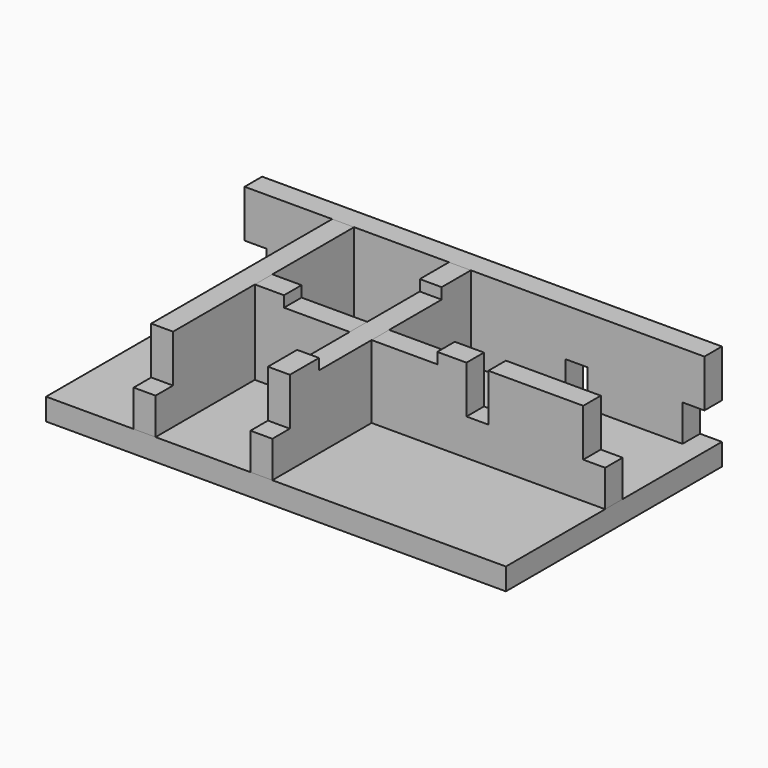
from build123d import *

# Parameters (mm, degrees)
SKETCH_W        = 126
SKETCH_H        = 74
PAD_DEPTH       = 6
SKETCH001_W     = 126
SKETCH001_H     = 23
PAD001_DEPTH    = 6
SKETCH004_W     = 6
SKETCH004_H     = 10
POCKET001_DEPTH = 6.001
SKETCH006_W     = 6
SKETCH006_H     = 10
POCKET003_DEPTH = 6.001
SKETCH002_W     = 74
SKETCH002_H     = 23
PAD002_DEPTH    = 6
SKETCH003_W     = 6
SKETCH003_H     = 13
POCKET_DEPTH    = 6.001
SKETCH005_W     = 6
SKETCH005_H     = 10
POCKET002_DEPTH = 6.001
SKETCH009_W     = 42
SKETCH009_H     = 3
POCKET005_DEPTH = 6.001
SKETCH007_W     = 102
SKETCH007_H     = 23
PAD003_DEPTH    = 6
SKETCH008_W     = 6
SKETCH008_H     = 13
POCKET004_DEPTH = 6.001


with BuildPart() as base:
    # Sketch → Pad (new body)
    with BuildSketch(Plane.XY):
        with Locations((0, 37)):
            Rectangle(SKETCH_W, SKETCH_H)
    extrude(amount=PAD_DEPTH)


with BuildPart() as side_long_clone:
    # Sketch001 → Pad001 (new body)
    with BuildSketch(Plane.XZ):
        with Locations((0, 11.5)):
            Rectangle(SKETCH001_W, SKETCH001_H)
    extrude(amount=PAD001_DEPTH)

    # Sketch004 (on Face6 of Pad001) → Pocket001 (cut, through all)
    with BuildSketch(Plane.XZ.offset(6)):
        with Locations((60, 5)):
            Rectangle(SKETCH004_W, SKETCH004_H)
        with Locations((-60, 5)):
            Rectangle(SKETCH004_W, SKETCH004_H)
    extrude(amount=-POCKET001_DEPTH, mode=Mode.SUBTRACT)

    # Sketch006 (on Face5 of Pocket001) → Pocket003 (cut, through all)
    with BuildSketch(Plane.XZ.offset(6)):
        with Locations((-36, 5)):
            Rectangle(SKETCH006_W, SKETCH006_H)
        with Locations((-4, 5)):
            Rectangle(SKETCH006_W, SKETCH006_H)
        with Locations((28, 5)):
            Rectangle(SKETCH006_W, SKETCH006_H)
    extrude(amount=-POCKET003_DEPTH, mode=Mode.SUBTRACT)


with BuildPart() as side_long_clone_1:
    # Body001 placement: moved
    add(side_long_clone.part.moved(Location((0, 6, 6))))


with BuildPart() as side_long_clone_2:
    # Body002 placement: moved
    add(side_long_clone_1.part.moved(Location((0, 68, 0))))


with BuildPart() as divider_clone_from_small_side:
    # Sketch002 → Pad002 (new body)
    with BuildSketch(Plane.YZ):
        with Locations((0, 11.5)):
            Rectangle(SKETCH002_W, SKETCH002_H)
    extrude(amount=PAD002_DEPTH)

    # Sketch003 (on Face6 of Pad002) → Pocket (cut, through all)
    with BuildSketch(Plane.YZ.offset(6)):
        with Locations((-34, 16.5)):
            Rectangle(SKETCH003_W, SKETCH003_H)
        with Locations((34, 16.5)):
            Rectangle(SKETCH003_W, SKETCH003_H)
    extrude(amount=-POCKET_DEPTH, mode=Mode.SUBTRACT)


with BuildPart() as divider_clone_from_small_side_1:
    # Body003 placement: moved
    add(divider_clone_from_small_side.part.moved(Location((-63, 37, 6))))

    # Sketch005 (on Face5 of Clone002) → Pocket002 (cut, through all)
    with BuildSketch(Plane(origin=(-57, 37, 6), x_dir=(0, 1, 0), z_dir=(1, 0, 0))):
        with Locations((0, 5)):
            Rectangle(SKETCH005_W, SKETCH005_H)
    extrude(amount=-POCKET002_DEPTH, mode=Mode.SUBTRACT)


with BuildPart() as divider_clone_from_small_side_2:
    # Body006 placement: moved
    add(divider_clone_from_small_side_1.part.moved(Location((120, 0, 0))))


with BuildPart() as divider_clone_2_with_holder:
    # Body007 base: copy of divider_clone from small side
    add(divider_clone_from_small_side_2.part)


with BuildPart() as divider_clone_2_with_holder_1:
    # Body007 placement: moved
    add(divider_clone_2_with_holder.part.moved(Location((-32, 0, 0))))

    # Sketch009 (on Face2 of Clone004) → Pocket005 (cut, through all)
    with BuildSketch(Plane(origin=(25, 0, 0), x_dir=(0, -1, 0), z_dir=(-1, 0, 0))):
        with Locations((-37, 27.5)):
            Rectangle(SKETCH009_W, SKETCH009_H)
    extrude(amount=-POCKET005_DEPTH, mode=Mode.SUBTRACT)


with BuildPart() as divider_clone_2_with_holder_2:
    # Body008 placement: moved
    add(divider_clone_2_with_holder_1.part.moved(Location((-32, 0, 0))))


with BuildPart() as body009:
    # Body009 base: copy of divider_clone from small side
    add(divider_clone_from_small_side_2.part)


with BuildPart() as body009_1:
    # Body009 placement: moved
    add(body009.part.moved(Location((-96, 0, 0))))


with BuildPart() as divider_long_with_holder:
    # Sketch007 → Pad003 (new body)
    with BuildSketch(Plane.XZ):
        with Locations((12, 11.5)):
            Rectangle(SKETCH007_W, SKETCH007_H)
    extrude(amount=PAD003_DEPTH)

    # Sketch008 (on Face6 of Pad003) → Pocket004 (cut, through all)
    with BuildSketch(Plane.XZ.offset(6)):
        with Locations((-36, 16.5)):
            Rectangle(SKETCH008_W, SKETCH008_H)
        with Locations((28, 16.5)):
            Rectangle(SKETCH008_W, SKETCH008_H)
        with Locations((60, 16.5)):
            Rectangle(SKETCH008_W, SKETCH008_H)
        Polygon((-25, 23), (17, 23), (17, 20), (-1, 20), (-1, 10), (-7, 10), (-7, 20), (-25, 20), align=None)
    extrude(amount=-POCKET004_DEPTH, mode=Mode.SUBTRACT)


with BuildPart() as divider_long_with_holder_1:
    # Body010 placement: moved
    add(divider_long_with_holder.part.moved(Location((0, 40, 6))))


solid = Compound([base.part, side_long_clone_2.part, divider_clone_2_with_holder_2.part, body009_1.part, divider_long_with_holder_1.part])
